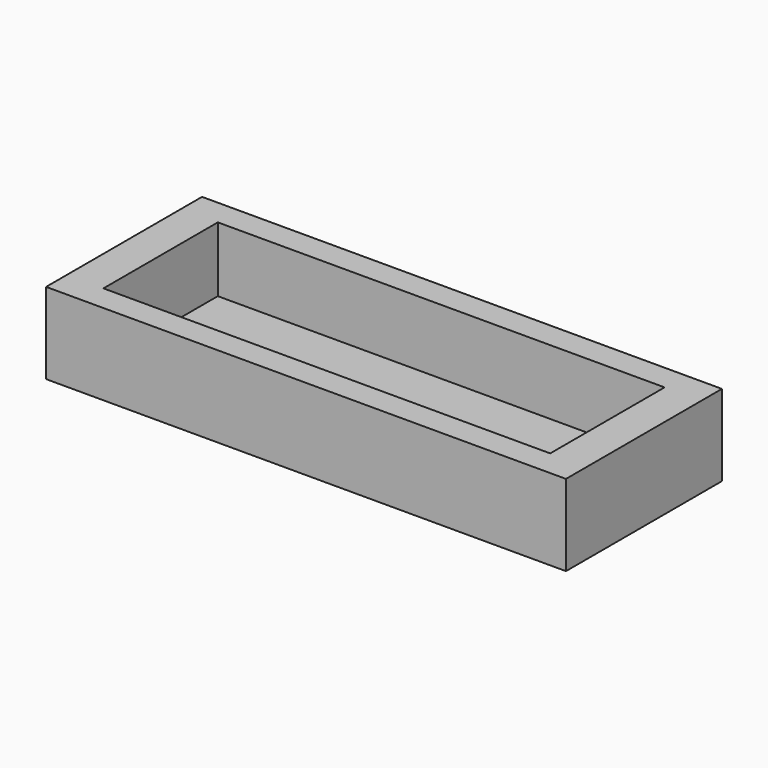
from build123d import *

# Parameters (mm, degrees)
F1_W     = 203.2
F1_H     = 76.2
F1_W_2   = 174.625
F1_H_2   = 55.88
F2_DEPTH = 31.75
F0_W     = 203.2
F0_H     = 76.2
F3_DEPTH = 6.35


with BuildPart() as f2:
    # F1 (on face) → F2 (new body)
    with BuildSketch(Plane.XY):
        Rectangle(F1_W, F1_H)
        Rectangle(F1_W_2, F1_H_2, mode=Mode.SUBTRACT)
    extrude(amount=F2_DEPTH)

    # F0 (on Top) → F3 (join)
    with BuildSketch(Plane.XY):
        Rectangle(F0_W, F0_H)
    extrude(amount=F3_DEPTH)


solid = f2.part
